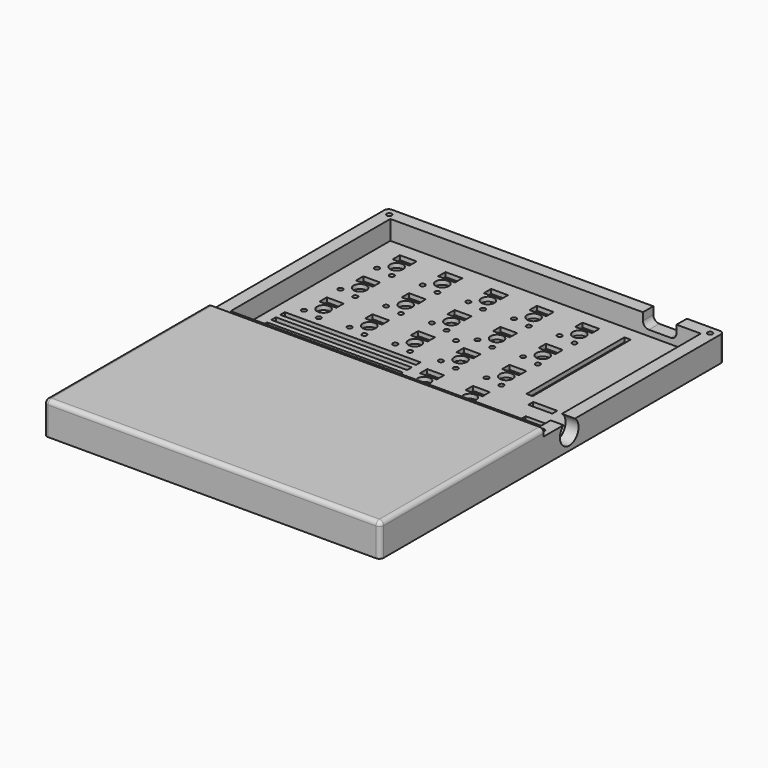
from build123d import *

# Parameters (mm, degrees)
PAD002_DEPTH    = 13.6
SKETCH023_W     = 129.2
SKETCH023_H     = 83.1
POCKET016_DEPTH = 11
SKETCH027_R     = 1.05
POCKET018_DEPTH = 13.601
SKETCH028_W     = 140
SKETCH028_H     = 93.9
POCKET019_DEPTH = 3
POCKET021_DEPTH = 1.6
SKETCH031_R     = 1
SKETCH031_R_2   = 2.7
SKETCH031_W     = 7
SKETCH031_H     = 3.8
POCKET022_DEPTH = 1.8
SKETCH032_W     = 2.6
SKETCH032_H     = 51
SKETCH032_W_2   = 10
SKETCH032_H_2   = 2.6
POCKET023_DEPTH = 1.8
SKETCH033_W     = 56.5
SKETCH033_H     = 2.4
SKETCH033_W_2   = 22.5
POCKET024_DEPTH = 1.8
SKETCH034_W     = 15
SKETCH034_H     = 10
POCKET025_DEPTH = 1.8
SKETCH035_R     = 4.85
POCKET026_DEPTH = 5.4
FILLET003_R     = 1.8
POCKET027_DEPTH = 10


with BuildPart() as part:
    # Sketch022 (on XY_Plane077 of Origin464) → Pad002 (new body)
    with BuildSketch(Plane.XY):
        Polygon((70, -46.95), (70, 46.95), (-70, 46.95), (-70, -46.95), (-70, -131.95), (70, -131.95), align=None)
    extrude(amount=PAD002_DEPTH)

    # Sketch023 (on Face4 of Pad002) → Pocket016 (cut)
    with BuildSketch(Plane.XY.offset(13.6)):
        Rectangle(SKETCH023_W, SKETCH023_H)
    extrude(amount=-POCKET016_DEPTH, mode=Mode.SUBTRACT)

    # Sketch027 (on Face5 of Pocket016) → Pocket018 (cut, through all)
    with BuildSketch(Plane.XY.offset(13.6)):
        with Locations((66.75, 43.7)):
            Circle(SKETCH027_R)
        with Locations((66.75, -43.7)):
            Circle(SKETCH027_R)
        with Locations((-66.75, -43.7)):
            Circle(SKETCH027_R)
        with Locations((-66.75, 43.7)):
            Circle(SKETCH027_R)
        with Locations((-4.05, 0)):
            Circle(SKETCH027_R)
    extrude(amount=-POCKET018_DEPTH, mode=Mode.SUBTRACT)

    # Sketch028 (on Face4 of Pad002) → Pocket019 (cut)
    with BuildSketch(Plane.XY.offset(13.6)):
        Rectangle(SKETCH028_W, SKETCH028_H)
    extrude(amount=-POCKET019_DEPTH, mode=Mode.SUBTRACT)

    # Sketch030 (on Face2 of Pocket019) → Pocket021 (cut)
    with BuildSketch(Plane(origin=(0, 0, 0), x_dir=(1, 0, 0), z_dir=(0, 0, -1))):
        Polygon((64.75, -43.7), (65.75, -45.432051), (67.75, -45.432051), (68.75, -43.7), (67.75, -41.967949), (65.75, -41.967949), align=None)
        Polygon((-64.75, -43.7), (-65.75, -45.432051), (-67.75, -45.432051), (-68.75, -43.7), (-67.75, -41.967949), (-65.75, -41.967949), align=None)
        Polygon((64.75, 43.7), (65.75, 45.432051), (67.75, 45.432051), (68.75, 43.7), (67.75, 41.967949), (65.75, 41.967949), align=None)
        Polygon((-64.75, 43.7), (-65.75, 45.432051), (-67.75, 45.432051), (-68.75, 43.7), (-67.75, 41.967949), (-65.75, 41.967949), align=None)
        Polygon((-2.05, 0), (-3.05, 1.732051), (-5.05, 1.732051), (-6.05, 0), (-5.05, -1.732051), (-3.05, -1.732051), align=None)
    extrude(amount=-POCKET021_DEPTH, mode=Mode.SUBTRACT)

    # Sketch031 (on Face52 of Pocket021) → Pocket022 (cut)
    with BuildSketch(Plane.XY.offset(2.6)):
        with Locations((8.05, 3.75)):
            Circle(SKETCH031_R)
        with Locations((1.05, 4.8)):
            Circle(SKETCH031_R)
        with Locations((5.45, 9.5)):
            Circle(SKETCH031_R_2)
        with Locations((8.05, 22.75)):
            Circle(SKETCH031_R)
        with Locations((1.05, 23.8)):
            Circle(SKETCH031_R)
        with Locations((5.45, 28.5)):
            Circle(SKETCH031_R_2)
        with Locations((-29.95, 3.75)):
            Circle(SKETCH031_R)
        with Locations((-36.95, 4.8)):
            Circle(SKETCH031_R)
        with Locations((-32.55, 9.5)):
            Circle(SKETCH031_R_2)
        with Locations((-29.95, 22.75)):
            Circle(SKETCH031_R)
        with Locations((-36.95, 23.8)):
            Circle(SKETCH031_R)
        with Locations((-32.55, 28.5)):
            Circle(SKETCH031_R_2)
        with Locations((-48.95, 22.75)):
            Circle(SKETCH031_R)
        with Locations((-55.95, 23.8)):
            Circle(SKETCH031_R)
        with Locations((-51.55, 28.5)):
            Circle(SKETCH031_R_2)
        with Locations((-48.95, 3.75)):
            Circle(SKETCH031_R)
        with Locations((-55.95, 4.8)):
            Circle(SKETCH031_R)
        with Locations((-51.55, 9.5)):
            Circle(SKETCH031_R_2)
        with Locations((-10.95, 22.75)):
            Circle(SKETCH031_R)
        with Locations((-17.95, 23.8)):
            Circle(SKETCH031_R)
        with Locations((-13.55, 28.5)):
            Circle(SKETCH031_R_2)
        with Locations((27.05, 3.75)):
            Circle(SKETCH031_R)
        with Locations((20.05, 4.8)):
            Circle(SKETCH031_R)
        with Locations((24.45, 9.5)):
            Circle(SKETCH031_R_2)
        with Locations((27.05, 22.75)):
            Circle(SKETCH031_R)
        with Locations((20.05, 23.8)):
            Circle(SKETCH031_R)
        with Locations((24.45, 28.5)):
            Circle(SKETCH031_R_2)
        with Locations((-48.95, -15.25)):
            Circle(SKETCH031_R)
        with Locations((-55.95, -14.2)):
            Circle(SKETCH031_R)
        with Locations((-51.55, -9.5)):
            Circle(SKETCH031_R_2)
        with Locations((-29.95, -15.25)):
            Circle(SKETCH031_R)
        with Locations((-36.95, -14.2)):
            Circle(SKETCH031_R)
        with Locations((-32.55, -9.5)):
            Circle(SKETCH031_R_2)
        with Locations((-10.95, -15.25)):
            Circle(SKETCH031_R)
        with Locations((-17.95, -14.2)):
            Circle(SKETCH031_R)
        with Locations((-13.55, -9.5)):
            Circle(SKETCH031_R_2)
        with Locations((8.05, -15.25)):
            Circle(SKETCH031_R)
        with Locations((1.05, -14.2)):
            Circle(SKETCH031_R)
        with Locations((5.45, -9.5)):
            Circle(SKETCH031_R_2)
        with Locations((27.05, -15.25)):
            Circle(SKETCH031_R)
        with Locations((20.05, -14.2)):
            Circle(SKETCH031_R)
        with Locations((24.45, -9.5)):
            Circle(SKETCH031_R_2)
        with Locations((8.05, -34.25)):
            Circle(SKETCH031_R)
        with Locations((1.05, -33.2)):
            Circle(SKETCH031_R)
        with Locations((5.45, -28.5)):
            Circle(SKETCH031_R_2)
        with Locations((27.05, -34.25)):
            Circle(SKETCH031_R)
        with Locations((20.05, -33.2)):
            Circle(SKETCH031_R)
        with Locations((24.45, -28.5)):
            Circle(SKETCH031_R_2)
        with Locations((-10.95, 3.75)):
            Circle(SKETCH031_R)
        with Locations((-17.95, 4.8)):
            Circle(SKETCH031_R)
        with Locations((-13.55, 9.5)):
            Circle(SKETCH031_R_2)
        with Locations((4.65, 14.65)):
            Rectangle(SKETCH031_W, SKETCH031_H)
        with Locations((4.65, 33.65)):
            Rectangle(SKETCH031_W, SKETCH031_H)
        with Locations((-33.35, 14.65)):
            Rectangle(SKETCH031_W, SKETCH031_H)
        with Locations((-33.35, 33.65)):
            Rectangle(SKETCH031_W, SKETCH031_H)
        with Locations((-52.35, 33.65)):
            Rectangle(SKETCH031_W, SKETCH031_H)
        with Locations((-52.35, 14.65)):
            Rectangle(SKETCH031_W, SKETCH031_H)
        with Locations((-14.35, 33.65)):
            Rectangle(SKETCH031_W, SKETCH031_H)
        with Locations((23.65, 14.65)):
            Rectangle(SKETCH031_W, SKETCH031_H)
        with Locations((23.65, 33.65)):
            Rectangle(SKETCH031_W, SKETCH031_H)
        with Locations((-52.35, -4.35)):
            Rectangle(SKETCH031_W, SKETCH031_H)
        with Locations((-33.35, -4.35)):
            Rectangle(SKETCH031_W, SKETCH031_H)
        with Locations((-14.35, -4.35)):
            Rectangle(SKETCH031_W, SKETCH031_H)
        with Locations((4.65, -4.35)):
            Rectangle(SKETCH031_W, SKETCH031_H)
        with Locations((23.65, -4.35)):
            Rectangle(SKETCH031_W, SKETCH031_H)
        with Locations((4.65, -23.35)):
            Rectangle(SKETCH031_W, SKETCH031_H)
        with Locations((23.65, -23.35)):
            Rectangle(SKETCH031_W, SKETCH031_H)
        with Locations((-14.35, 14.65)):
            Rectangle(SKETCH031_W, SKETCH031_H)
    extrude(amount=-POCKET022_DEPTH, mode=Mode.SUBTRACT)

    # Sketch032 (on Face52 of Pocket022) → Pocket023 (cut)
    with BuildSketch(Plane.XY.offset(2.6)):
        with Locations((38.55, 10.5)):
            Rectangle(SKETCH032_W, SKETCH032_H)
        with Locations((56.4, 10.5)):
            Rectangle(SKETCH032_W, SKETCH032_H)
        with Locations((47.5, -19.3)):
            Rectangle(SKETCH032_W_2, SKETCH032_H_2)
    extrude(amount=-POCKET023_DEPTH, mode=Mode.SUBTRACT)

    # Sketch033 (on Face52 of Pocket023) → Pocket024 (cut)
    with BuildSketch(Plane.XY.offset(2.6)):
        with Locations((-31.75, -24.9)):
            Rectangle(SKETCH033_W, SKETCH033_H)
        with Locations((-31.75, -29.5)):
            Rectangle(SKETCH033_W, SKETCH033_H)
        with Locations((-14.75, -34.1)):
            Rectangle(SKETCH033_W_2, SKETCH033_H)
        with Locations((-31.75, -20.3)):
            Rectangle(SKETCH033_W, SKETCH033_H)
    extrude(amount=-POCKET024_DEPTH, mode=Mode.SUBTRACT)

    # Sketch034 (on Face52 of Pocket024) → Pocket025 (cut)
    with BuildSketch(Plane.XY.offset(2.6)):
        with Locations((54.375, -32.375)):
            Rectangle(SKETCH034_W, SKETCH034_H)
    extrude(amount=-POCKET025_DEPTH, mode=Mode.SUBTRACT)

    # Sketch035 (on Face5 of Pocket025) → Pocket026 (cut)
    with BuildSketch(Plane.YZ.offset(70)):
        with Locations((-33.65, 6.75)):
            Circle(SKETCH035_R)
    extrude(amount=-POCKET026_DEPTH, mode=Mode.SUBTRACT)

    # Fillet003
    fillet003_edges = [part.edges().sort_by_distance(p)[0] for p in [
        (-70, -89.45, 13.6),
        (0, -131.95, 13.6),
        (-70, -131.95, 6.8),
        (-70, 46.95, 5.3),
        (70, 46.95, 5.3),
        (70, -89.45, 13.6),
        (70, -131.95, 6.8),
    ]]
    fillet(fillet003_edges, radius=FILLET003_R)

    # Sketch037 (on Face1 of Fillet003) → Pocket027 (cut)
    with BuildSketch(Plane(origin=(0, 46.95, 0), x_dir=(-1, 0, 0), z_dir=(0, 1, 0))):
        with BuildLine():
            Line((-40.5, 7.5), (-40.5, 10.5))
            ThreePointArc((-40.5, 10.5), (-41.232233, 12.267767), (-43, 13))
            Line((-43, 13), (-52, 13))
            ThreePointArc((-52, 13), (-53.767767, 12.267767), (-54.5, 10.5))
            Line((-54.5, 10.5), (-54.5, 7.5))
            ThreePointArc((-54.5, 7.5), (-53.767767, 5.732233), (-52, 5))
            Line((-52, 5), (-43, 5))
            ThreePointArc((-43, 5), (-41.232233, 5.732233), (-40.5, 7.5))
        make_face()
    extrude(amount=-POCKET027_DEPTH, mode=Mode.SUBTRACT)


with BuildPart() as part_1:
    # Body002 placement: moved
    add(part.part.moved(Location((-100, 0, -0.1))))


solid = part_1.part
